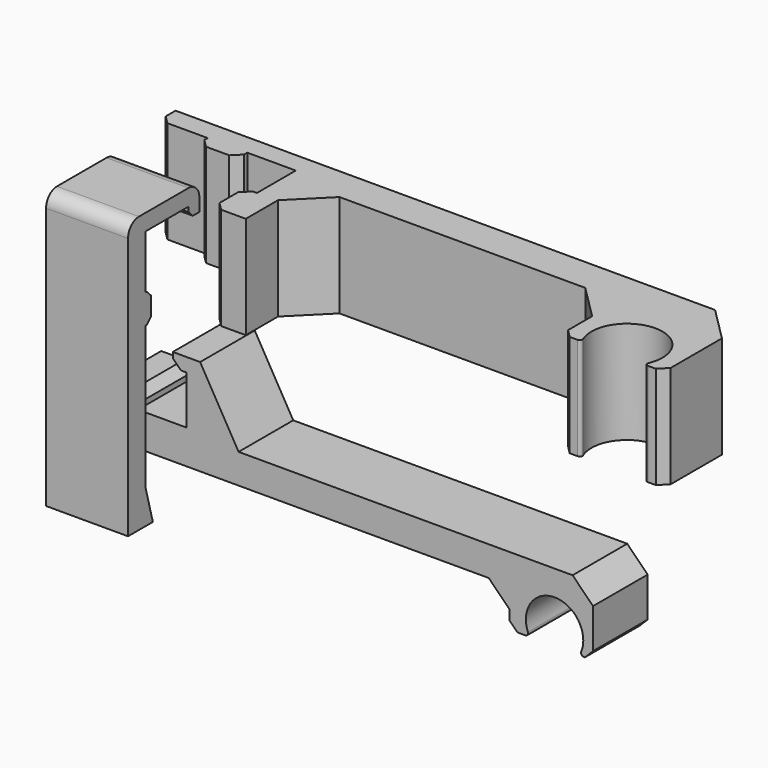
from build123d import *

# Parameters (mm, degrees)
F2_DEPTH  = 10
F3_SIZE   = 1.2
F4_SIZE   = 3
F6_DEPTH  = 15
F7_SIZE   = 1.2
F8_SIZE   = 5
F9_R      = 0.4
F9_2_R    = 0.4
F11_DEPTH = 12
F12_SIZE  = 0.8
F13_R     = 2


with BuildPart() as f2:
    # F1 (on Front) → F2 (new body)
    with BuildSketch(Plane.XZ):
        with BuildLine():
            Line((8, -0.9), (8, -2.9))
            Line((8, -2.9), (10, -2.9))
            Line((10, -2.9), (10, -10))
            Line((10, -10), (2.9, -10))
            Line((2.9, -10), (2.9, -8))
            Line((2.9, -8), (-2.9, -8))
            Line((-2.9, -8), (-2.9, -10))
            Line((-2.9, -10), (-9, -10))
            Line((-9, -10), (-9, -15))
            Line((-9, -15), (57.262693, -15))
            Line((57.262693, -15), (57.262693, -20.65))
            Line((57.262693, -20.65), (60.262693, -20.65))
            ThreePointArc((60.262693, -20.65), (62.81296, -14.493112), (68.1, -18.55))
            ThreePointArc((68.1, -18.55), (67.956888, -19.63704), (67.537307, -20.65))
            Line((67.537307, -20.65), (69.537307, -20.65))
            Line((69.537307, -20.65), (69.537307, -10.65))
            Line((69.537307, -10.65), (17.629165, -10.65))
            Line((17.629165, -10.65), (12, -0.9))
            Line((12, -0.9), (8, -0.9))
        make_face()
    extrude(amount=F2_DEPTH)

    # F3
    f3_edges = [f2.edges().sort_by_distance(p)[0] for p in [
        (-2.9, -5, -8),
        (2.9, -5, -8),
        (8, -5, -2.9),
        (57.262693, -5, -20.65),
        (69.537307, -5, -20.65),
    ]]
    chamfer(f3_edges, length=F3_SIZE)

    # F4
    f4_edges = [f2.edges().sort_by_distance(p)[0] for p in [
        (-9, -5, -15),
        (57.262693, -5, -15),
        (69.537307, -5, -10.65),
    ]]
    chamfer(f4_edges, length=F4_SIZE)

    # F9
    f9_edges = [f2.edges().sort_by_distance(p)[0] for p in [
        (60.262693, -5, -20.65),
        (67.537307, -5, -20.65),
    ]]
    fillet(f9_edges, radius=F9_R)


with BuildPart() as f6:
    # F5 (on Top) → F6 (new body)
    with BuildSketch(Plane.XY):
        with BuildLine():
            ThreePointArc((61.996668, -2.6), (65.154141, 5.022814), (71.7, 0))
            ThreePointArc((71.7, 0), (71.522814, -1.345859), (71.003332, -2.6))
            Line((71.003332, -2.6), (74.003332, -2.6))
            Line((74.003332, -2.6), (74.003332, 13))
            Line((74.003332, 13), (-10, 13))
            Line((-10, 13), (-10, 10))
            Line((-10, 10), (-2.9, 10))
            Line((-2.9, 10), (-2.9, 8.2))
            Line((-2.9, 8.2), (2.9, 8.2))
            Line((2.9, 8.2), (2.9, 10))
            Line((2.9, 10), (10, 10))
            Line((10, 10), (10, 2.9))
            Line((10, 2.9), (8.2, 2.9))
            Line((8.2, 2.9), (8.2, -2.9))
            Line((8.2, -2.9), (10, -2.9))
            Line((10, -2.9), (13, -2.9))
            Line((13, -2.9), (13, 8))
            Line((13, 8), (58.996668, 8))
            Line((58.996668, 8), (58.996668, -2.6))
            Line((58.996668, -2.6), (61.996668, -2.6))
        make_face()
    extrude(amount=F6_DEPTH)

    # F7
    f7_edges = [f6.edges().sort_by_distance(p)[0] for p in [
        (8.2, 2.9, 7.5),
        (8.2, -2.9, 7.5),
        (-2.9, 8.2, 7.5),
        (2.9, 8.2, 7.5),
        (-10, 10, 7.5),
        (58.996668, -2.6, 7.5),
        (74.003332, -2.6, 7.5),
    ]]
    chamfer(f7_edges, length=F7_SIZE)

    # F8
    f8_edges = [f6.edges().sort_by_distance(p)[0] for p in [
        (74.003332, 13, 7.5),
        (58.996668, 8, 7.5),
        (13, 8, 7.5),
    ]]
    chamfer(f8_edges, length=F8_SIZE)

    # F9#2
    f9_2_edges = [f6.edges().sort_by_distance(p)[0] for p in [
        (61.996668, -2.6, 7.5),
        (71.003332, -2.6, 7.5),
    ]]
    fillet(f9_2_edges, radius=F9_2_R)


with BuildPart() as f11:
    # F10 (on Right) → F11 (new body)
    with BuildSketch(Plane.YZ):
        Polygon((-12.15, 20), (-12.15, 18.5), (-10.15, 18.5), (-10.15, 22.4), (-23.2, 22.4), (-23.2, -18), (-18.660254, -18), (-20, -13), (-20, 7.85), (-19, 7.85), (-19, 12.15), (-20, 12.15), (-20, 20), align=None)
    extrude(amount=F11_DEPTH)

    # F12
    f12_edges = [f11.edges().sort_by_distance(p)[0] for p in [
        (6, -19, 12.15),
        (6, -12.15, 18.5),
        (6, -19, 7.85),
    ]]
    chamfer(f12_edges, length=F12_SIZE)

    # F13
    f13_edges = [f11.edges().sort_by_distance(p)[0] for p in [
        (6, -23.2, 22.4),
        (6, -20, -13),
        (6, -10.15, 22.4),
    ]]
    fillet(f13_edges, radius=F13_R)


solid = Compound([f2.part, f6.part, f11.part])
